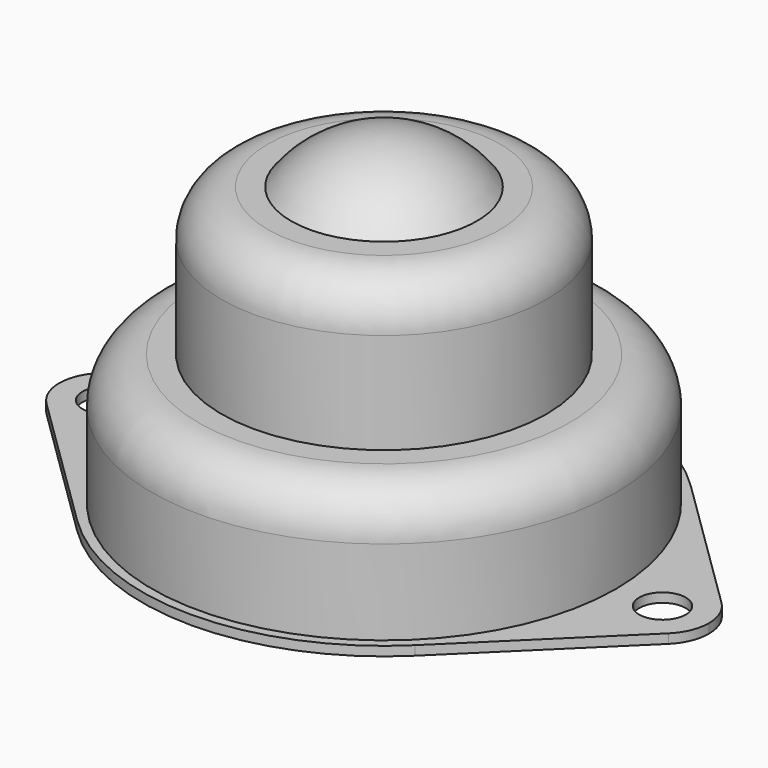
from build123d import *

# Parameters (mm, degrees)
F2_R     = 5
F4_DEPTH = 1


with BuildPart() as f1:
    # F0 (on Front) → F1 (revolve)
    with BuildSketch(Plane.XZ):
        with BuildLine():
            Line((-25, 14.134617), (-25, 0))
            Line((-25, 0), (0, 0))
            Line((0, 0), (0, 35))
            ThreePointArc((0, 35), (-5.59017, 33.68034), (-10, 30))
            Line((-10, 30), (-17.5, 30))
            Line((-17.5, 30), (-17.5, 14.134617))
            Line((-17.5, 14.134617), (-25, 14.134617))
        make_face()
    revolve(axis=Axis((0, 0, 17.5), (0, 0, 1)))

    # F2
    f2_edges = [f1.edges().sort_by_distance(p)[0] for p in [
        (17.5, 0, 30),
        (25, 0, 14.134617),
    ]]
    fillet(f2_edges, radius=F2_R)

    # F3 (on face) → F4 (join)
    with BuildSketch(Plane(origin=(0, 0, 0), x_dir=(1, 0, 0), z_dir=(0, 0, -1))):
        with BuildLine():
            ThreePointArc((27.5, 0), (30, 2.5), (32.5, 0))
            Line((32.5, 0), (35, 0))
            ThreePointArc((35, 0), (34.609772, 1.936492), (33.5, 3.570714))
            Line((33.5, 3.570714), (18.2, 18.567714))
            ThreePointArc((18.2, 18.567714), (0, 26), (-18.2, 18.567714))
            Line((-18.2, 18.567714), (-33.5, 3.570714))
            ThreePointArc((-33.5, 3.570714), (-34.609772, 1.936492), (-35, 0))
            Line((-35, 0), (-32.5, 0))
            ThreePointArc((-32.5, 0), (-30, 2.5), (-27.5, 0))
            Line((-27.5, 0), (27.5, 0))
        make_face()
        with BuildLine():
            Line((35, 0), (32.5, 0))
            ThreePointArc((32.5, 0), (30, -2.5), (27.5, 0))
            Line((27.5, 0), (-27.5, 0))
            ThreePointArc((-27.5, 0), (-30, -2.5), (-32.5, 0))
            Line((-32.5, 0), (-35, 0))
            ThreePointArc((-35, 0), (-34.609772, -1.936492), (-33.5, -3.570714))
            Line((-33.5, -3.570714), (-18.2, -18.567714))
            ThreePointArc((-18.2, -18.567714), (0, -26), (18.2, -18.567714))
            Line((18.2, -18.567714), (33.5, -3.570714))
            ThreePointArc((33.5, -3.570714), (34.609772, -1.936492), (35, 0))
        make_face()
    extrude(amount=F4_DEPTH)


solid = f1.part
